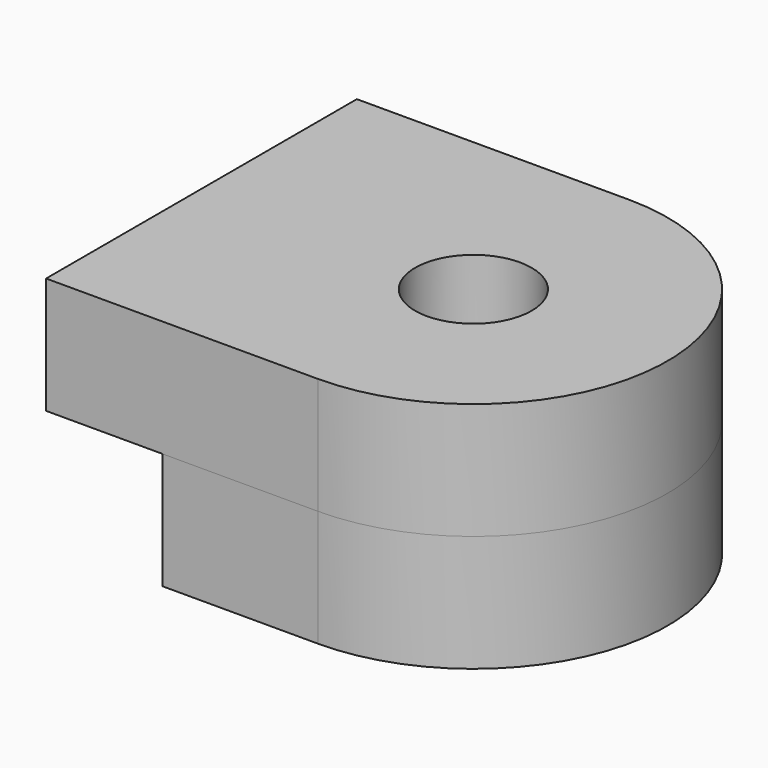
from build123d import *

# Parameters (mm, degrees)
F2_DEPTH = 3
F3_R     = 1.5
F4_DEPTH = 3


with BuildPart() as f2:
    # F1 (on Top) → F2 (new body)
    with BuildSketch(Plane.XY):
        with BuildLine():
            ThreePointArc((0, -5), (5, 0), (0, 5))
            Line((0, 5), (-4, 5))
            Line((-4, 5), (-4, -5))
            Line((-4, -5), (0, -5))
        make_face()
        Polygon((1.5877132403, 2.75), (3.1754264805, 0), (1.5877132403, -2.75), (-1.5877132403, -2.75), (-3.1754264805, 0), (-1.5877132403, 2.75), align=None, mode=Mode.SUBTRACT)
    extrude(amount=F2_DEPTH)


with BuildPart() as f4:
    # F3 (on face) → F4 (new body)
    with BuildSketch(Plane.XY.offset(3)):
        with BuildLine():
            ThreePointArc((0, -5), (5, 0), (0, 5))
            Line((0, 5), (-4, 5))
            Line((-4, 5), (-7, 5))
            Line((-7, 5), (-7, -5))
            Line((-7, -5), (-4, -5))
            Line((-4, -5), (0, -5))
        make_face()
        Circle(F3_R, mode=Mode.SUBTRACT)
    extrude(amount=F4_DEPTH)


solid = Compound([f2.part, f4.part])
